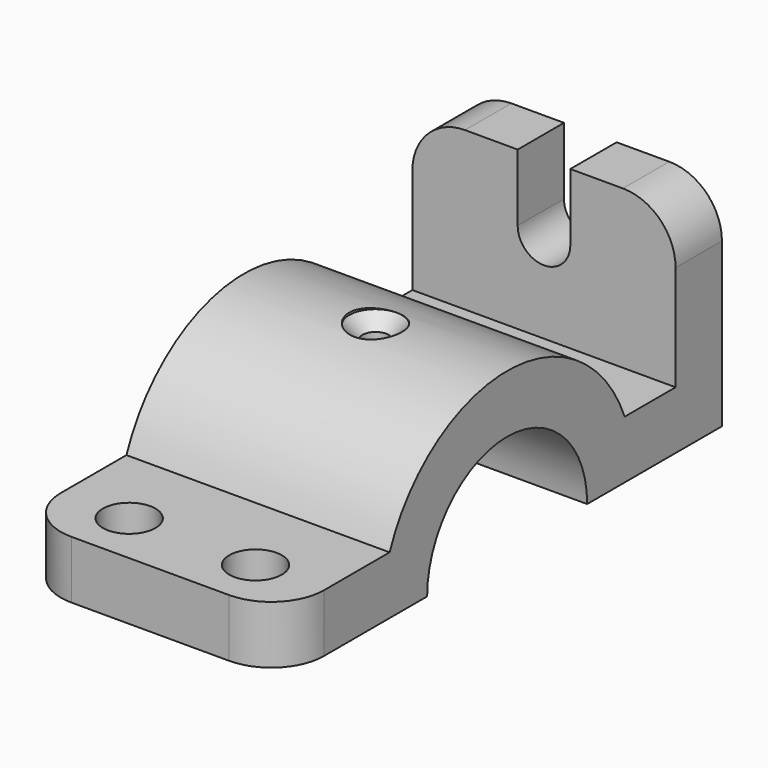
from build123d import *

# Parameters (mm, degrees)
F0_W           = 11
F0_H           = 30
F1_DEPTH       = 25
F1_DEPTH_BACK  = 25
F3_DEPTH       = 11
F4_R           = 10
F5_R           = 5
F6_DEPTH       = 12
F8_D           = 5
F8_START       = 11.4196012
F8_CSINK_D     = 10
F8_CSINK_ANGLE = 90


with BuildPart() as f1:
    # F0 (on Right) → F1 (new body, two sides)
    with BuildSketch(Plane.YZ) as f1_sk:
        with BuildLine():
            Line((-27.9105714739, 11), (-53.5, 11))
            Line((-53.5, 11), (-53.5, 0))
            Line((-53.5, 0), (-30, 0))
            ThreePointArc((-30, 0), (-29.4730143031, 5.5983415304), (-27.9105714739, 11))
        make_face()
        with BuildLine():
            ThreePointArc((27.9105714739, 11), (0, 30), (-27.9105714739, 11))
            ThreePointArc((-27.9105714739, 11), (-29.4730143031, 5.5983415304), (-30, 0))
            Line((-30, 0), (-19, 0))
            ThreePointArc((-19, 0), (0, 19), (19, 0))
            Line((19, 0), (30, 0))
            ThreePointArc((30, 0), (29.4730143031, 5.5983415304), (27.9105714739, 11))
        make_face()
        with BuildLine():
            Line((40, 11), (27.9105714739, 11))
            ThreePointArc((27.9105714739, 11), (29.4730143031, 5.5983415304), (30, 0))
            Line((30, 0), (51, 0))
            Line((51, 0), (51, 11))
            Line((51, 11), (40, 11))
        make_face()
        with Locations((45.5, 26)):
            Rectangle(F0_W, F0_H)
    extrude(amount=F1_DEPTH)
    extrude(f1_sk.sketch, amount=-F1_DEPTH_BACK)

    # F2 (on face) → F3 (cut)
    with BuildSketch(Plane(origin=(0, 51, 0), x_dir=(-1, 0, 0), z_dir=(0, 1, 0))):
        with BuildLine():
            Line((5, 41), (-5, 41))
            Line((-5, 41), (-5, 28.2676104225))
            ThreePointArc((-5, 28.2676104225), (0, 33.2676104225), (5, 28.2676104225))
            Line((5, 28.2676104225), (5, 41))
        make_face()
        with BuildLine():
            ThreePointArc((5, 28.2676104225), (0, 33.2676104225), (-5, 28.2676104225))
            Line((-5, 28.2676104225), (5, 28.2676104225))
        make_face()
        with BuildLine():
            Line((5, 28.2676104225), (-5, 28.2676104225))
            ThreePointArc((-5, 28.2676104225), (0, 23.2676104225), (5, 28.2676104225))
        make_face()
    extrude(amount=-F3_DEPTH, mode=Mode.SUBTRACT)

    # F4
    f4_edges = [f1.edges().sort_by_distance(p)[0] for p in [
        (25, -53.5, 5.5),
        (-25, -53.5, 5.5),
        (25, 45.5, 41),
        (-25, 45.5, 41),
    ]]
    fillet(f4_edges, radius=F4_R)

    # F5 (on face) → F6 (cut)
    with BuildSketch(Plane(origin=(0, 0, 0), x_dir=(1, 0, 0), z_dir=(0, 0, -1))):
        with Locations((-12, 43.5)):
            Circle(F5_R)
        with Locations((12, 43.5)):
            Circle(F5_R)
    extrude(amount=-F6_DEPTH, mode=Mode.SUBTRACT)

    # F8 (through all)
    # its depths count from where the whole tool has entered the part; down to there all is cleared
    with Locations(Plane.XY.offset(41).offset(-F8_START)):
        with Locations((0, 0)):
            CounterSinkHole(F8_D / 2, F8_CSINK_D / 2, counter_sink_angle=F8_CSINK_ANGLE)


solid = f1.part
